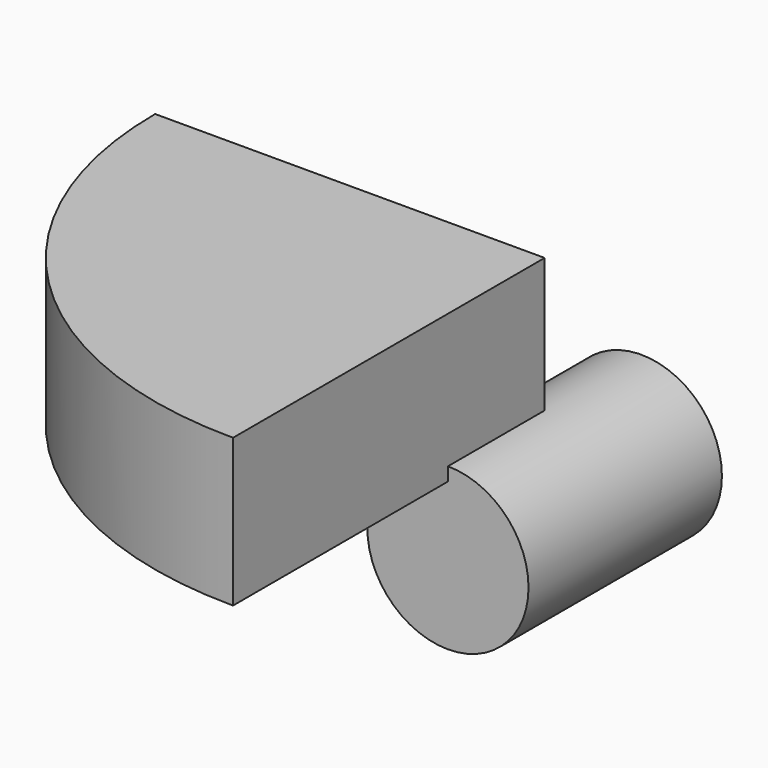
from build123d import *

# Parameters (mm, degrees)
F0_R          = 30
F1_DEPTH      = 90
F3_DEPTH      = 50
F3_DEPTH_BACK = 5


with BuildPart() as f1:
    # F0 (on Front) → F1 (new body)
    with BuildSketch(Plane.XZ):
        with Locations((0, -30)):
            Circle(F0_R)
    extrude(amount=-F1_DEPTH)

    # F2 (on Top) → F3 (join, two sides)
    with BuildSketch(Plane.XY) as f3_sk:
        with BuildLine():
            Line((0, -100), (0, 45))
            Line((0, 45), (-145, 45))
            ThreePointArc((-145, 45), (-102.530483, -57.530483), (0, -100))
        make_face()
    extrude(amount=F3_DEPTH)
    extrude(f3_sk.sketch, amount=-F3_DEPTH_BACK)


solid = f1.part
